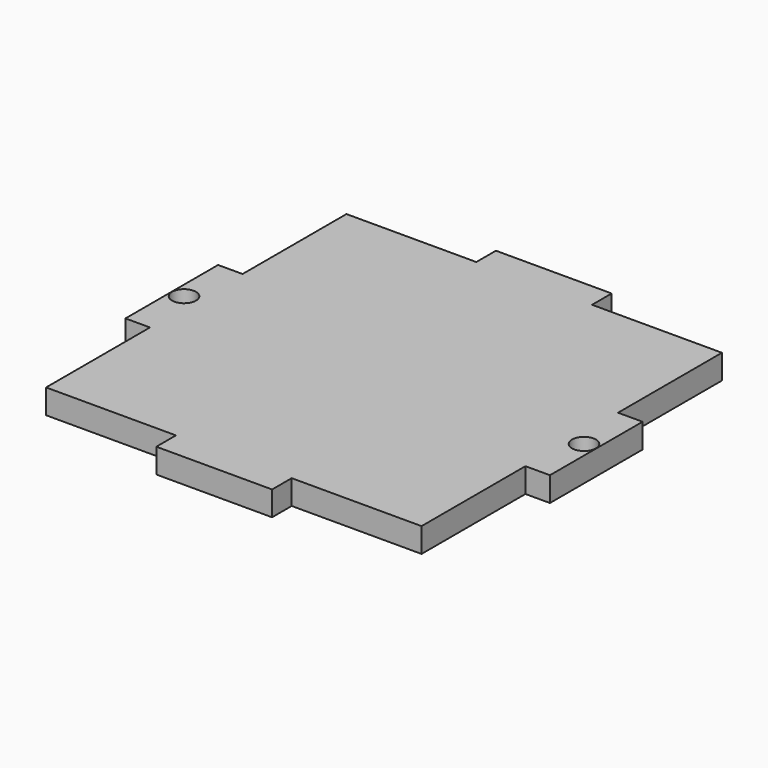
from build123d import *

# Parameters (mm, degrees)
F1_W     = 48.65
F1_H     = 48.65
F2_DEPTH = 3.175
F3_W     = 3.175
F3_H     = 15
F3_W_2   = 15
F3_H_2   = 3.175
F4_DEPTH = 3.175
F5_R     = 1.55
F6_DEPTH = 3.176


with BuildPart() as f2:
    # F1 (on Top) → F2 (new body)
    with BuildSketch(Plane.XY):
        Rectangle(F1_W, F1_H)
    extrude(amount=F2_DEPTH)

    # F3 (on face) → F4 (join, through all)
    with BuildSketch(Plane.XY.offset(3.175)):
        with Locations((-25.9125, 0)):
            Rectangle(F3_W, F3_H)
        with Locations((0, 25.9125)):
            Rectangle(F3_W_2, F3_H_2)
        with Locations((0, -25.9125)):
            Rectangle(F3_W_2, F3_H_2)
        with Locations((25.9125, 0)):
            Rectangle(F3_W, F3_H)
    extrude(amount=-F4_DEPTH)

    # F5 (on face) → F6 (cut, through all)
    with BuildSketch(Plane.XY.offset(3.175)):
        with Locations((-25.9125, 0)):
            Circle(F5_R)
        with Locations((25.9125, 0)):
            Circle(F5_R)
    extrude(amount=-F6_DEPTH, mode=Mode.SUBTRACT)


solid = f2.part
